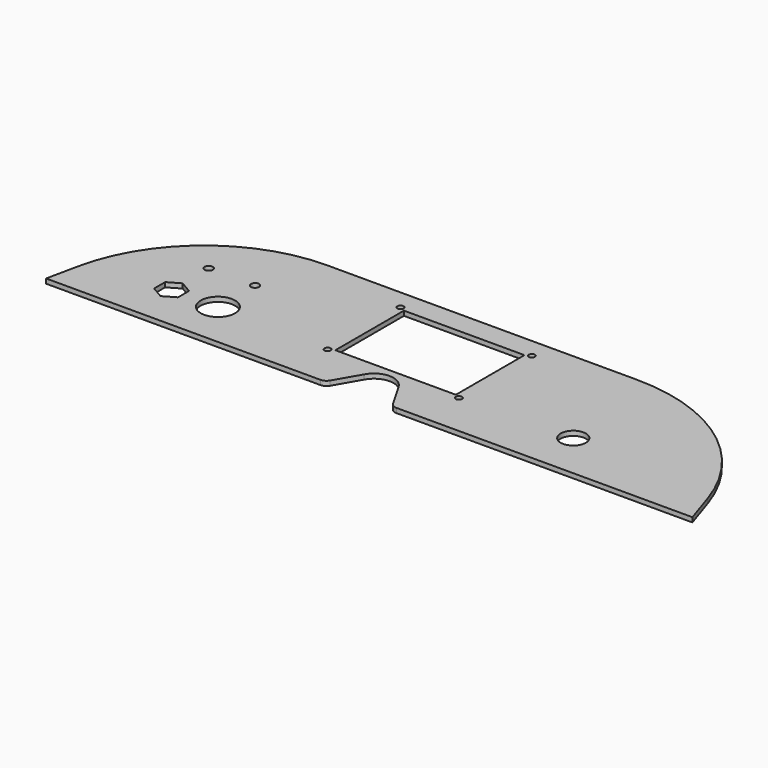
from build123d import *

# Parameters (mm, degrees)
F1_DEPTH  = 3
F3_DEPTH  = 25
F4_R      = 5
F5_R      = 11.15
F5_R_2    = 2.65
F6_DEPTH  = 25
F7_W      = 78
F7_H      = 55.5
F7_R      = 2
F8_DEPTH  = 25
F9_R      = 8.15
F10_DEPTH = 25


with BuildPart() as f1:
    # F0 (on Top) → F1 (new body)
    with BuildSketch(Plane.XY):
        with BuildLine():
            Line((-197.8147600734, 20.7911690818), (-202.2340594865, 0))
            Line((-202.2340594865, 0), (216.0975214603, 0))
            Line((216.0975214603, 0), (209.2885731253, 20.7911690818))
            ThreePointArc((209.2885731253, 20.7911690818), (167.4870934164, 78.1154778874), (100, 100))
            Line((100, 100), (-100, 100))
            ThreePointArc((-100, 100), (-162.932039105, 77.7145961457), (-197.8147600734, 20.7911690818))
        make_face()
    extrude(amount=F1_DEPTH)

    # F2 (on face) → F3 (cut)
    with BuildSketch(Plane.XY.offset(3)):
        with BuildLine():
            ThreePointArc((1.5842979518, 0), (9.4530988092, 4.1693984068), (12.6, 12.5))
            ThreePointArc((12.6, 12.5), (12.2192388124, 15.5741182224), (11.0999678023, 18.4624420155))
            ThreePointArc((11.0999678023, 18.4624420155), (0, 25.1), (-11.0999678023, 18.4624420155))
            ThreePointArc((-11.0999678023, 18.4624420155), (-11.1999147641, 6.7274867453), (-1.5842979518, 0))
            Line((-1.5842979518, 0), (1.5842979518, 0))
        make_face()
        with BuildLine():
            ThreePointArc((11.0999678023, 18.4624420155), (12.2192388124, 15.5741182224), (12.6, 12.5))
            ThreePointArc((12.6, 12.5), (9.4530988092, 4.1693984068), (1.5842979518, 0))
            Line((1.5842979518, 0), (21.7592636698, 0))
            Line((21.7592636698, 0), (11.0999678023, 18.4624420155))
        make_face()
        with BuildLine():
            ThreePointArc((-1.5842979518, 0), (0, -0.1), (1.5842979518, 0))
            Line((1.5842979518, 0), (-1.5842979518, 0))
        make_face()
        with BuildLine():
            ThreePointArc((-1.5842979518, 0), (-11.1999147641, 6.7274867453), (-11.0999678023, 18.4624420155))
            Line((-11.0999678023, 18.4624420155), (-21.7592636698, 0))
            Line((-21.7592636698, 0), (-1.5842979518, 0))
        make_face()
    extrude(amount=-F3_DEPTH, mode=Mode.SUBTRACT)

    # F4
    f4_edges = [f1.edges().sort_by_distance(p)[0] for p in [
        (-21.759264, 0, 1.5),
        (21.759264, 0, 1.5),
    ]]
    fillet(f4_edges, radius=F4_R)

    # F5 (on face) → F6 (cut)
    with BuildSketch(Plane.XY.offset(3)):
        Polygon((-145, 38.9489291724), (-152.75, 34.4744645862), (-152.75, 25.5255354138), (-145, 21.0510708276), (-137.25, 25.5255354138), (-137.25, 34.4744645862), align=None)
        with Locations((-115, 30)):
            Circle(F5_R)
        with Locations((-115, 60)):
            Circle(F5_R_2)
        with Locations((-145, 60)):
            Circle(F5_R_2)
    extrude(amount=-F6_DEPTH, mode=Mode.SUBTRACT)

    # F7 (on face) → F8 (cut)
    with BuildSketch(Plane.XY.offset(3)):
        with Locations((0, 57.75)):
            Rectangle(F7_W, F7_H)
        with Locations((-42.6313167033, 28.25)):
            Circle(F7_R)
        with Locations((-42.6313167033, 87.25)):
            Circle(F7_R)
        with Locations((42.3686832967, 87.25)):
            Circle(F7_R)
        with Locations((42.3686832967, 28.25)):
            Circle(F7_R)
    extrude(amount=-F8_DEPTH, mode=Mode.SUBTRACT)

    # F9 (on face) → F10 (cut)
    with BuildSketch(Plane.XY.offset(3)):
        with Locations((115, 30)):
            Circle(F9_R)
    extrude(amount=-F10_DEPTH, mode=Mode.SUBTRACT)


solid = f1.part
